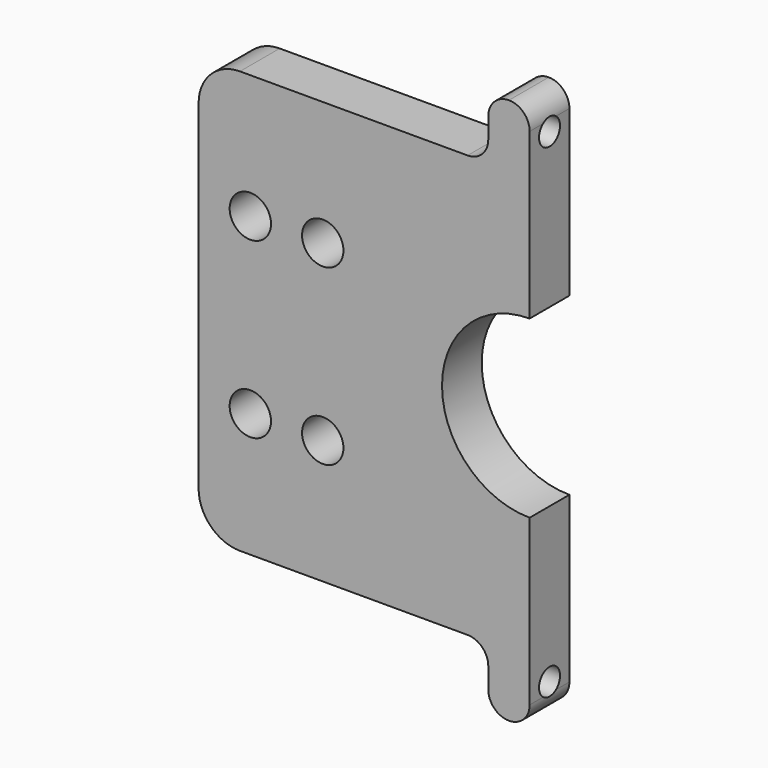
from build123d import *

# Parameters (mm, degrees)
F1_DEPTH = 3
F2_R     = 1.5875
F3_DEPTH = 10.901


with BuildPart() as f1:
    # F0 (on Front) → F1 (new body, symmetric)
    with BuildSketch(Plane.XZ):
        with BuildLine():
            Line((-29.1, 18.76), (-29.1, 8.76))
            Line((-29.1, 8.76), (-29.1, -12.24))
            Line((-29.1, -12.24), (-29.1, -22.24))
            ThreePointArc((-29.1, -22.24), (-27.635534, -25.775534), (-24.1, -27.24))
            Line((-24.1, -27.24), (3.4, -27.24))
            ThreePointArc((3.4, -27.24), (5.167767, -27.972233), (5.9, -29.74))
            Line((5.9, -29.74), (5.9, -32.24))
            ThreePointArc((5.9, -32.24), (6.632233, -34.007767), (8.4, -34.74))
            ThreePointArc((8.4, -34.74), (10.167767, -34.007767), (10.9, -32.24))
            Line((10.9, -32.24), (10.9, -30.99))
            Line((10.9, -30.99), (10.9, -27.24))
            Line((10.9, -27.24), (10.9, -12.33))
            ThreePointArc((10.9, -12.33), (0.31, -1.74), (10.9, 8.85))
            Line((10.9, 8.85), (10.9, 23.76))
            Line((10.9, 23.76), (10.9, 27.51))
            Line((10.9, 27.51), (10.9, 28.76))
            ThreePointArc((10.9, 28.76), (10.167767, 30.527767), (8.4, 31.26))
            ThreePointArc((8.4, 31.26), (6.632233, 30.527767), (5.9, 28.76))
            Line((5.9, 28.76), (5.9, 26.26))
            ThreePointArc((5.9, 26.26), (5.167767, 24.492233), (3.4, 23.76))
            Line((3.4, 23.76), (-24.1, 23.76))
            ThreePointArc((-24.1, 23.76), (-27.635534, 22.295534), (-29.1, 18.76))
        make_face()
        with BuildLine():
            ThreePointArc((-20.35, -12.24), (-22.85, -14.74), (-25.35, -12.24))
            ThreePointArc((-25.35, -12.24), (-22.85, -9.74), (-20.35, -12.24))
        make_face(mode=Mode.SUBTRACT)
        with BuildLine():
            ThreePointArc((-11.6, -12.24), (-14.1, -14.74), (-16.6, -12.24))
            ThreePointArc((-16.6, -12.24), (-14.1, -9.74), (-11.6, -12.24))
        make_face(mode=Mode.SUBTRACT)
        with BuildLine():
            ThreePointArc((-25.35, 8.76), (-22.85, 11.26), (-20.35, 8.76))
            ThreePointArc((-20.35, 8.76), (-22.85, 6.26), (-25.35, 8.76))
        make_face(mode=Mode.SUBTRACT)
        with BuildLine():
            ThreePointArc((-11.6, 8.76), (-14.1, 6.26), (-16.6, 8.76))
            ThreePointArc((-16.6, 8.76), (-14.1, 11.26), (-11.6, 8.76))
        make_face(mode=Mode.SUBTRACT)
    extrude(amount=F1_DEPTH, both=True)

    # F2 (on Right) → F3 (cut, through all)
    with BuildSketch(Plane.YZ):
        with Locations((0, 27.51)):
            Circle(F2_R)
        with Locations((0, -30.99)):
            Circle(F2_R)
    extrude(amount=F3_DEPTH, mode=Mode.SUBTRACT)


solid = f1.part
